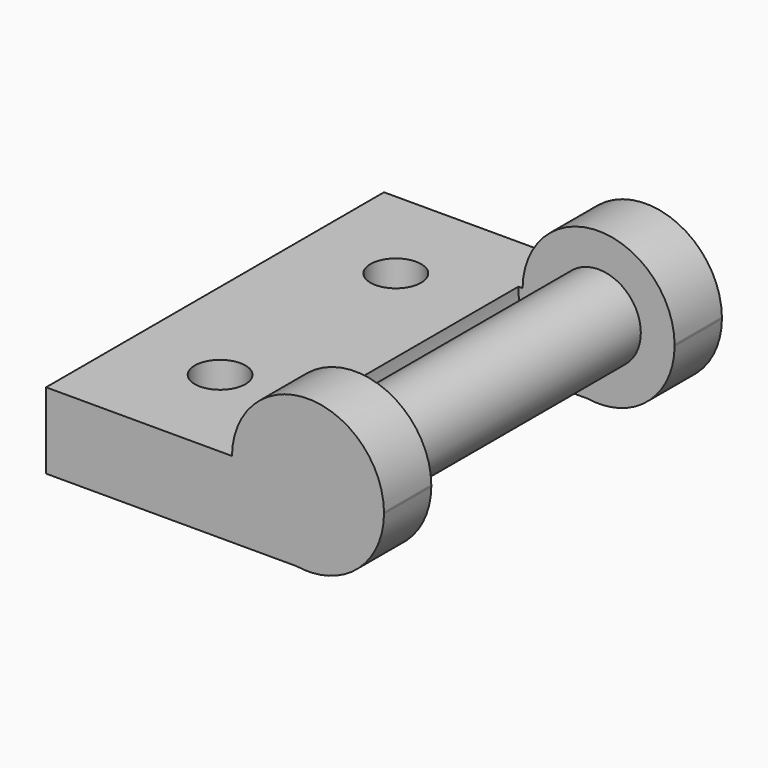
from build123d import *

# Parameters (mm, degrees)
F1_DEPTH = 50
F2_R     = 3
F3_DEPTH = 25
F5_R     = 9.5
F5_R_2   = 5
F6_DEPTH = 36


with BuildPart() as f1:
    # F0 (on Front) → F1 (new body)
    with BuildSketch(Plane.XZ):
        with BuildLine():
            Line((0, 9), (0, 0))
            Line((0, 0), (29.635604471, 0))
            ThreePointArc((29.635604471, 0), (24.1372813391, 3.0739592866), (22.0012044628, 9))
            Line((22.0012044628, 9), (0, 9))
        make_face()
        with BuildLine():
            ThreePointArc((22.0012044628, 9), (24.1372813391, 3.0739592866), (29.635604471, 0))
            Line((29.635604471, 0), (32.3655999918, 0))
            ThreePointArc((32.3655999918, 0), (37.7961142893, 2.9949521539), (40, 8.7917712569))
            Line((40, 8.7917712569), (40, 9))
            ThreePointArc((40, 9), (31.0006022314, 17.8958856284), (22.0012044628, 9))
        make_face()
        with BuildLine():
            Line((32.3655999918, 0), (29.635604471, 0))
            ThreePointArc((29.635604471, 0), (31.0006022314, -0.1041143716), (32.3655999918, 0))
        make_face()
        with BuildLine():
            Line((40, 9), (40, 8.7917712569))
            ThreePointArc((40, 8.7917712569), (40.0004516723, 8.8438275718), (40.0006022314, 8.8958856284))
            ThreePointArc((40.0006022314, 8.8958856284), (40.0004516723, 8.9479436851), (40, 9))
        make_face()
    extrude(amount=-F1_DEPTH)

    # F2 (on face) → F3 (cut)
    with BuildSketch(Plane.XY.offset(9)):
        with Locations((11.0006022314, 38)):
            Circle(F2_R)
        with Locations((11.0006022314, 12)):
            Circle(F2_R)
    extrude(amount=-F3_DEPTH, mode=Mode.SUBTRACT)

    # F5 (on offset) → F6 (cut)
    with BuildSketch(Plane.XZ.offset(-7)):
        with Locations((31.0006022314, 8.8958856284)):
            Circle(F5_R)
        with Locations((31.0006022314, 8.8958856284)):
            Circle(F5_R_2, mode=Mode.SUBTRACT)
    extrude(amount=-F6_DEPTH, mode=Mode.SUBTRACT)


solid = f1.part
